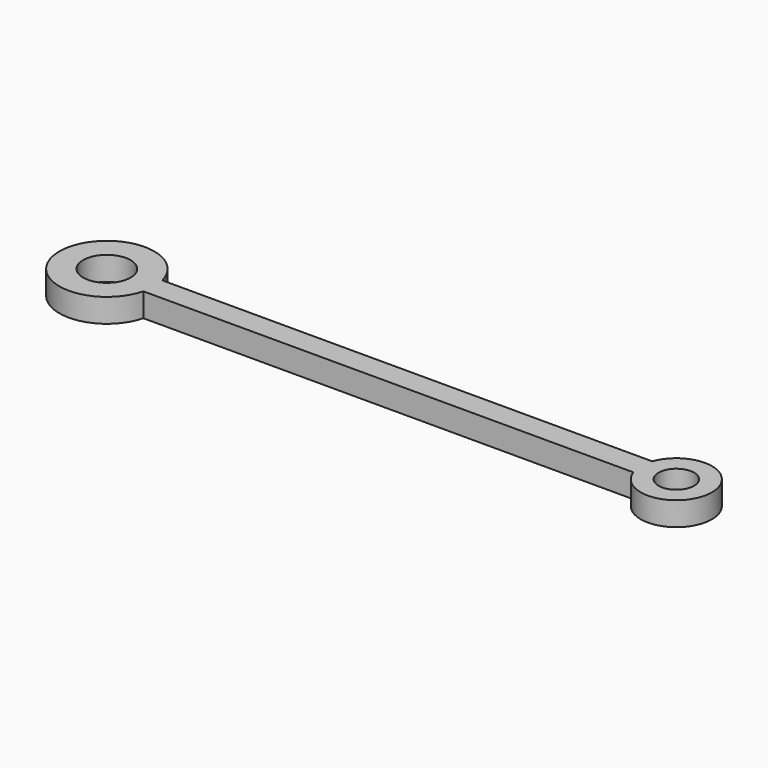
from build123d import *

# Parameters (mm, degrees)
F0_R     = 3.175
F0_R_2   = 2.38125
F1_DEPTH = 3.175


with BuildPart() as f1:
    # F0 (on Top) → F1 (new body)
    with BuildSketch(Plane.XY):
        with BuildLine():
            Line((65.561511, 0), (0, 0))
            ThreePointArc((0, 0), (-12.498361, -1.5875), (0, -3.175))
            Line((0, -3.175), (65.561511, -3.175))
            ThreePointArc((65.561511, -3.175), (74.814139, -1.5875), (65.561511, 0))
        make_face()
        with Locations((-6.148361, -1.5875)):
            Circle(F0_R, mode=Mode.SUBTRACT)
        with Locations((70.051639, -1.5875)):
            Circle(F0_R_2, mode=Mode.SUBTRACT)
    extrude(amount=F1_DEPTH)


solid = f1.part
